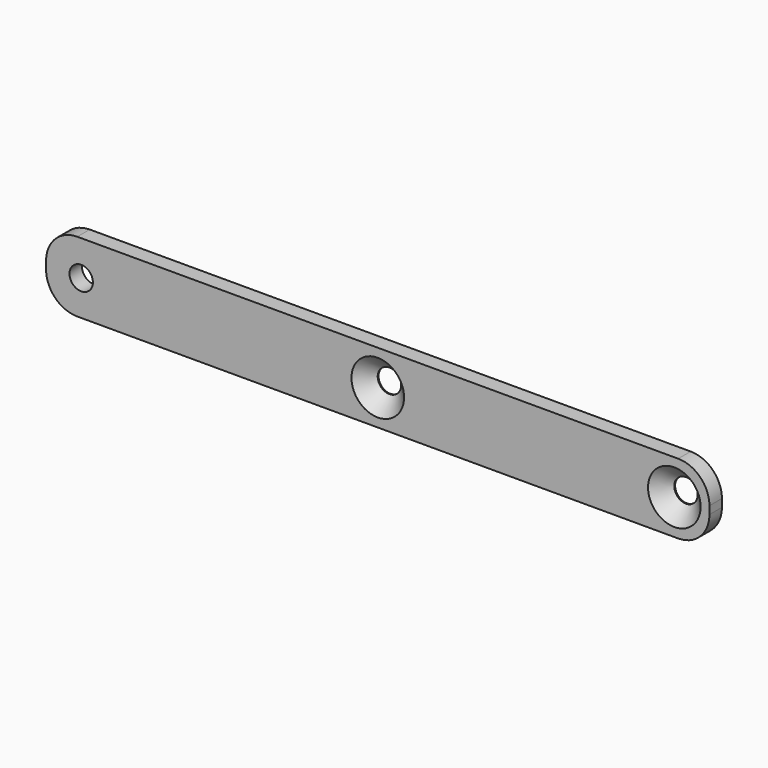
from build123d import *

# Parameters (mm, degrees)
F0_W     = 85
F0_H     = 9
F0_R     = 1.5
F1_DEPTH = 2
F2_R     = 4
F3_SIZE  = 1.87


with BuildPart() as f1:
    # F0 (on Front) → F1 (new body)
    with BuildSketch(Plane.XZ):
        Rectangle(F0_W, F0_H)
        with Locations((-38, 0)):
            Circle(F0_R, mode=Mode.SUBTRACT)
        Circle(F0_R, mode=Mode.SUBTRACT)
        with Locations((38, 0)):
            Circle(F0_R, mode=Mode.SUBTRACT)
    extrude(amount=F1_DEPTH)

    # F2
    f2_edges = [f1.edges().sort_by_distance(p)[0] for p in [
        (-42.5, -1, 4.5),
        (-42.5, -1, -4.5),
        (42.5, -1, -4.5),
        (42.5, -1, 4.5),
    ]]
    fillet(f2_edges, radius=F2_R)

    # F3
    f3_edges = [f1.edges().sort_by_distance(p)[0] for p in [
        (36.5, -2, 0),
        (-1.5, -2, 0),
    ]]
    chamfer(f3_edges, length=F3_SIZE)


solid = f1.part
